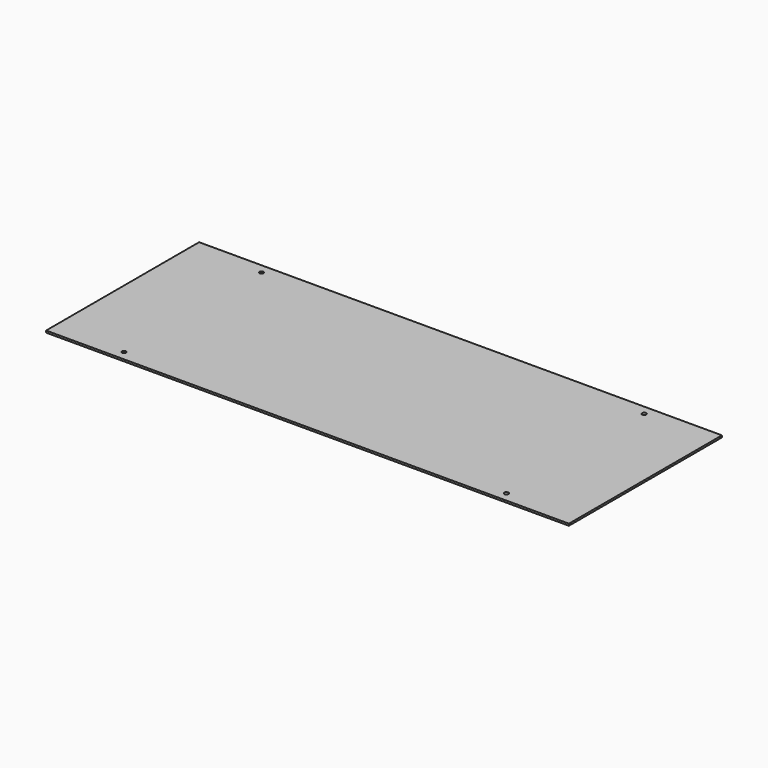
from build123d import *

# Parameters (mm, degrees)
F0_W     = 820
F0_H     = 300
F1_DEPTH = 3
F3_D     = 6.5


with BuildPart() as f1:
    # F0 (on Top) → F1 (new body)
    with BuildSketch(Plane.XY):
        Rectangle(F0_W, F0_H)
    extrude(amount=F1_DEPTH)

    # F3 (through all)
    with Locations(Plane(origin=(0, 0, 0), x_dir=(1, 0, 0), z_dir=(0, 0, -1))):
        with Locations((-300, 135), (-300, -135), (300, -135), (300, 135)):
            Hole(F3_D / 2)


solid = f1.part
